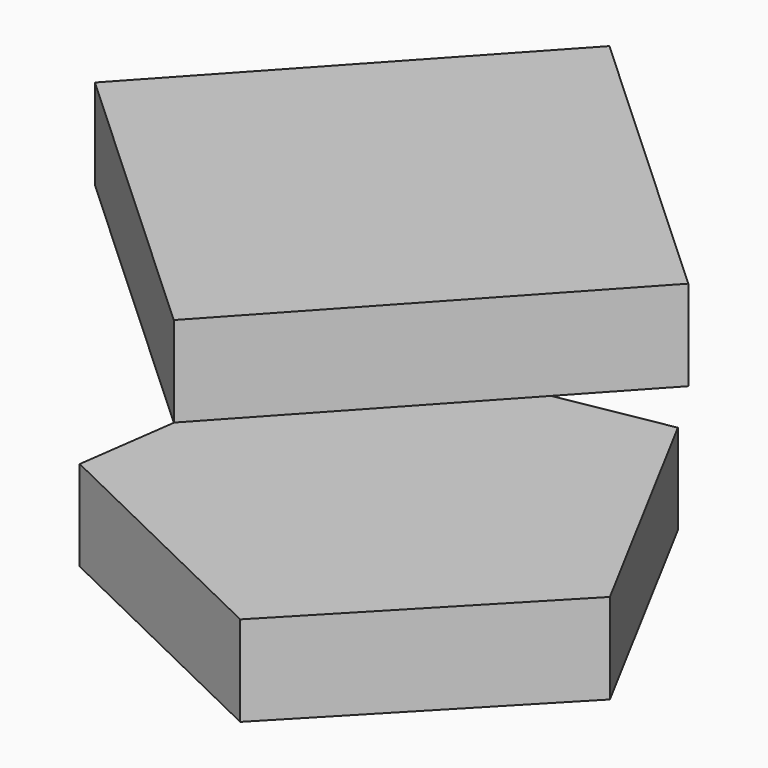
from build123d import *

# Parameters (mm, degrees)
F2_DEPTH = 6.35
F4_DEPTH = 6.35


with BuildPart() as f2:
    # F1 (on Top) → F2 (new body)
    with BuildSketch(Plane.XY):
        Polygon((17.257783, -2.378632), (7.595161, 15.678089), (-12.563715, 12.068224), (-15.359964, -8.219517), (3.070735, -17.148165), align=None)
    extrude(amount=-F2_DEPTH)


with BuildPart() as f4:
    # F3 (on offset) → F4 (new body)
    with BuildSketch(Plane.XY.offset(12.7)):
        Polygon((20.199441, 0.837124), (-0.837124, 20.199441), (-20.199441, -0.837124), (0.837124, -20.199441), align=None)
    extrude(amount=F4_DEPTH)


solid = Compound([f2.part, f4.part])
